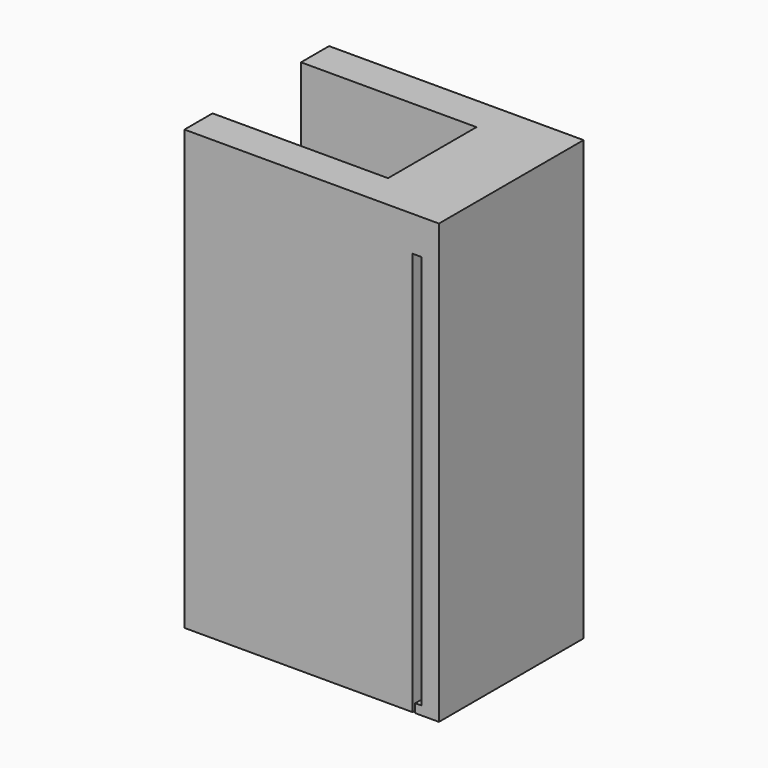
from build123d import *

# Parameters (mm, degrees)
F0_W     = 2
F0_H     = 6.3
F1_DEPTH = 25
F2_W     = 0.5
F2_H     = 2
F2_W_2   = 0.35
F2_H_2   = 0.5
F3_DEPTH = 10.3


with BuildPart() as f1:
    # F0 (on Top) → F1 (new body)
    with BuildSketch(Plane.XY):
        Polygon((2, 5.15), (-10, 5.15), (-10, 3.15), (0, 3.15), (2, 3.15), align=None)
        with Locations((1, 0)):
            Rectangle(F0_W, F0_H)
        Polygon((2, -5.15), (2, -3.15), (0, -3.15), (-10, -3.15), (-10, -5.15), align=None)
    extrude(amount=F1_DEPTH)

    # F2 (on face) → F3 (join)
    with BuildSketch(Plane.XZ.offset(5.15)):
        Polygon((4.5, 25), (3.5, 25), (3.5, 23), (3.5, 0.5), (3.5, 0), (4.5, 0), align=None)
        Polygon((3, 25), (2, 25), (2, 0), (3, 0), (3, 23), align=None)
        with Locations((3.25, 24)):
            Rectangle(F2_W, F2_H)
        with Locations((3.325, 0.25)):
            Rectangle(F2_W_2, F2_H_2)
    extrude(amount=-F3_DEPTH)


solid = f1.part
